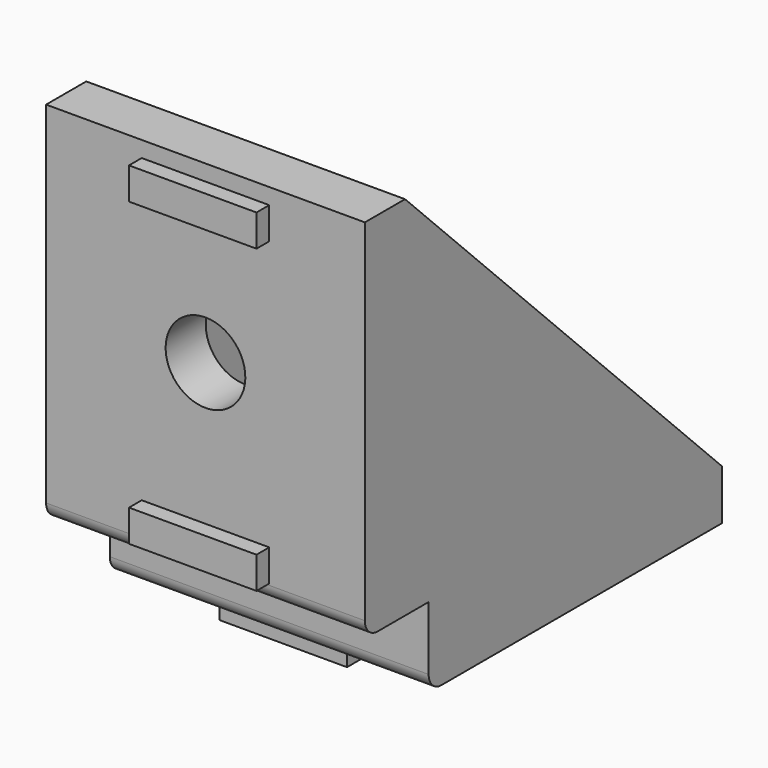
from build123d import *

# Parameters (mm, degrees)
PAD_DEPTH       = 6.85
PAD001_DEPTH    = 3.15
FILLET_R        = 1
FILLET001_R     = 1.5
SKETCH002_W     = 2
SKETCH002_H     = 8
PAD002_DEPTH    = 1
SKETCH003_W     = 2
SKETCH003_H     = 8
PAD003_DEPTH    = 1
SKETCH004_R     = 2.5
POCKET_DEPTH    = 4.151
SKETCH005_R     = 2.5
POCKET001_DEPTH = 4.151


with BuildPart() as part:
    # Sketch → Pad (new body, symmetric)
    with BuildSketch(Plane.YZ):
        Polygon((0, 28), (0, 5), (5, 5), (5, 0), (28, 0), (28, 3.15), (8.15, 3.15), (8.15, 8.15), (3.15, 8.15), (3.15, 28), align=None)
    extrude(amount=PAD_DEPTH, both=True)

    # Sketch001 (on Face11 of Pad) → Pad001 (join)
    with BuildSketch(Plane(origin=(-6.85, 0, 0), x_dir=(0, 1, 0), z_dir=(-1, 0, 0))):
        Polygon((0, -28), (0, -5), (5, -5), (5, 0), (28, 0), (28, -3.15), (3.15, -28), align=None)
    pad001 = extrude(amount=PAD001_DEPTH)

    # Mirrored: Pad001 across YZ
    add(pad001.mirror(Plane.YZ))

    # Fillet
    fillet_edges = [part.edges().sort_by_distance(p)[0] for p in [
        (0, 5, 0),
        (0, 0, 5),
    ]]
    fillet(fillet_edges, radius=FILLET_R)

    # Fillet001
    fillet001_edges = [part.edges().sort_by_distance(p)[0] for p in [
        (0, 3.15, 8.15),
        (0, 8.15, 8.15),
        (0, 8.15, 3.15),
    ]]
    fillet(fillet001_edges, radius=FILLET001_R)

    # Sketch002 (on Face26 of Fillet001) → Pad002 (join)
    with BuildSketch(Plane(origin=(0, 0, 0), x_dir=(0, 0, -1), z_dir=(0, -1, 0))):
        with Locations((-26, 0)):
            Rectangle(SKETCH002_W, SKETCH002_H)
        with Locations((-7.1, 0)):
            Rectangle(SKETCH002_W, SKETCH002_H)
    extrude(amount=PAD002_DEPTH)

    # Sketch003 (on Face16 of Pad002) → Pad003 (join)
    with BuildSketch(Plane.YX):
        with Locations((7.1, 0)):
            Rectangle(SKETCH003_W, SKETCH003_H)
        with Locations((26, 0)):
            Rectangle(SKETCH003_W, SKETCH003_H)
    extrude(amount=PAD003_DEPTH)

    # Sketch004 (on Face6 of Pad003) → Pocket (cut, through all)
    with BuildSketch(Plane.ZX.offset(3.15)):
        with Locations((17, 0)):
            Circle(SKETCH004_R)
    extrude(amount=-POCKET_DEPTH, mode=Mode.SUBTRACT)

    # Sketch005 (on Face2 of Pocket) → Pocket001 (cut, through all)
    with BuildSketch(Plane(origin=(0, 0, 3.15), x_dir=(0, -1, 0), z_dir=(0, 0, 1))):
        with Locations((-17, 0)):
            Circle(SKETCH005_R)
    extrude(amount=-POCKET001_DEPTH, mode=Mode.SUBTRACT)


solid = part.part
